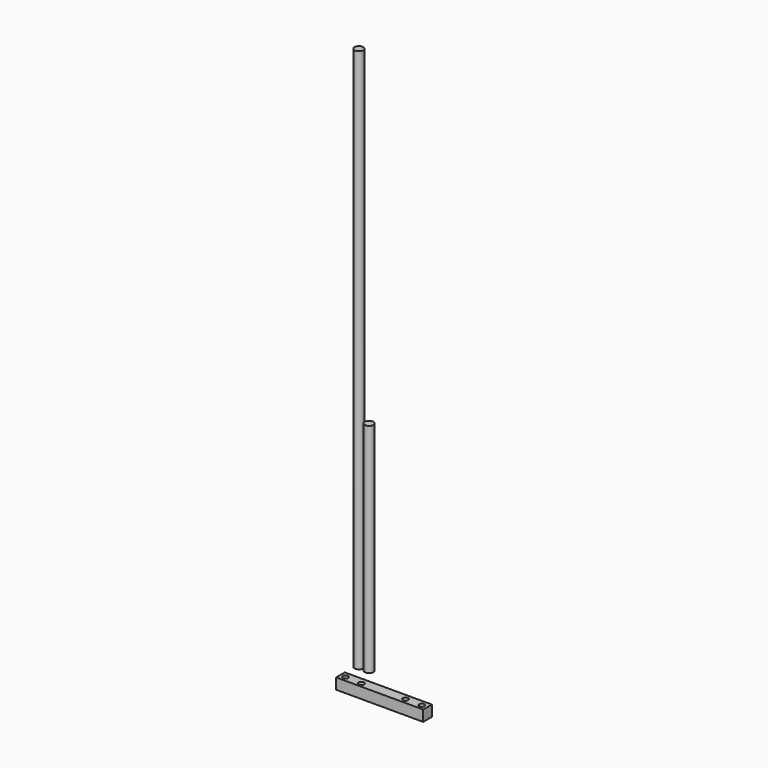
from build123d import *

# Parameters (mm, degrees)
F0_R     = 4
F1_DEPTH = 500
F2_R     = 4
F3_DEPTH = 200
F4_W     = 80
F4_H     = 10
F4_R     = 2.5
F5_DEPTH = 10


with BuildPart() as f1:
    # F0 (on Top) → F1 (new body)
    with BuildSketch(Plane.XY):
        Circle(F0_R)
    extrude(amount=F1_DEPTH)


with BuildPart() as f3:
    # F2 (on Top) → F3 (new body)
    with BuildSketch(Plane.XY):
        with Locations((9.395572, 0)):
            Circle(F2_R)
    extrude(amount=F3_DEPTH)


with BuildPart() as f5:
    # F4 (on Top) → F5 (new body)
    with BuildSketch(Plane.XY):
        with Locations((49.486753, -33.029498)):
            Rectangle(F4_W, F4_H)
        with Locations((14.486753, -33.494275)):
            Circle(F4_R, mode=Mode.SUBTRACT)
        with Locations((29.486753, -34.018867)):
            Circle(F4_R, mode=Mode.SUBTRACT)
        with Locations((69.486753, -33.32817)):
            Circle(F4_R, mode=Mode.SUBTRACT)
        with Locations((84.486753, -33.32521)):
            Circle(F4_R, mode=Mode.SUBTRACT)
    extrude(amount=F5_DEPTH)


solid = Compound([f1.part, f3.part, f5.part])
